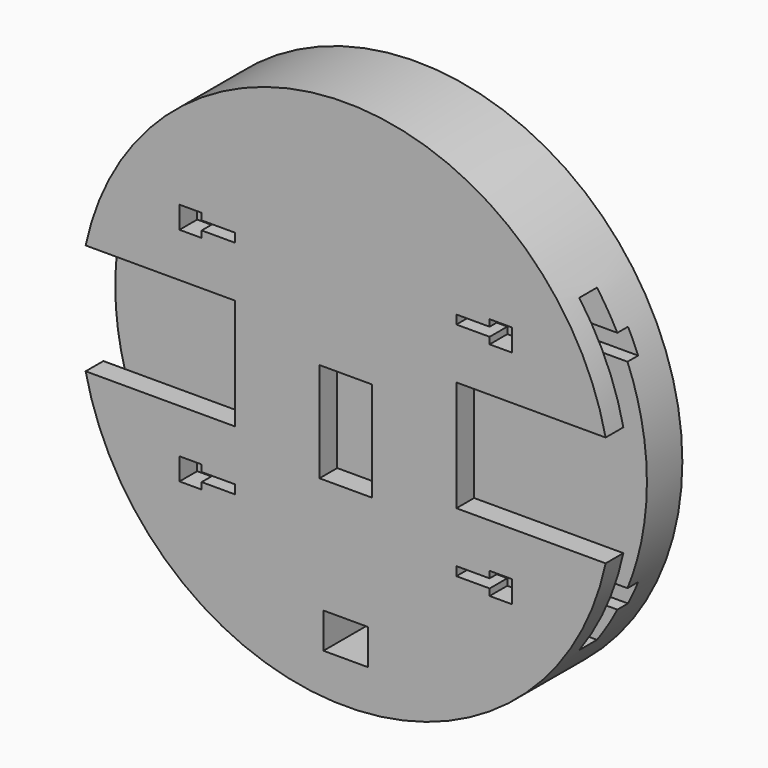
from build123d import *

# Parameters (mm, degrees)
F0_R      = 60
F1_DEPTH  = 20
F3_DEPTH  = 10
F4_W      = 5
F4_H      = 70
F5_DEPTH  = 60
F7_DEPTH  = 3
F8_W      = 11.8
F8_H      = 22.5
F9_DEPTH  = 6
F10_W     = 5
F10_H     = 1.5
F10_W_2   = 2.5
F10_H_2   = 1
F10_W_3   = 7.5
F11_DEPTH = 16
F12_W     = 10
F12_H     = 8
F13_DEPTH = 20.001


with BuildPart() as f1:
    # F0 (on Front) → F1 (new body)
    with BuildSketch(Plane.XZ):
        Circle(F0_R)
    extrude(amount=F1_DEPTH)

    # F2 (on face) → F3 (cut)
    with BuildSketch(Plane.XZ.offset(20)):
        with BuildLine():
            Line((-25, -12.5), (-25, 12.5))
            Line((-25, 12.5), (-58.6834729715, 12.5))
            ThreePointArc((-58.6834729715, 12.5), (-59.6699605258, 6.2845692656), (-60, 0))
            ThreePointArc((-60, 0), (-59.6699605258, -6.2845692656), (-58.6834729715, -12.5))
            Line((-58.6834729715, -12.5), (-25, -12.5))
        make_face()
        with BuildLine():
            Line((58.6834729715, 12.5), (25, 12.5))
            Line((25, 12.5), (25, -12.5))
            Line((25, -12.5), (58.6834729715, -12.5))
            ThreePointArc((58.6834729715, -12.5), (59.6699605258, -6.2845692656), (60, 0))
            ThreePointArc((60, 0), (59.6699605258, 6.2845692656), (58.6834729715, 12.5))
        make_face()
    extrude(amount=-F3_DEPTH, mode=Mode.SUBTRACT)

    # F4 (on Right) → F5 (cut, symmetric)
    with BuildSketch(Plane.YZ):
        with Locations((-12.5, 0)):
            Rectangle(F4_W, F4_H)
    extrude(amount=F5_DEPTH, both=True, mode=Mode.SUBTRACT)

    # F6 (on face) → F7 (cut)
    with BuildSketch(Plane.XZ.offset(10)):
        with BuildLine():
            Line((30, -22.5), (30, -25))
            Line((30, -25), (-30, -25))
            Line((-30, -25), (-30, -22.5))
            Line((-30, -22.5), (-55.6214886532, -22.5))
            ThreePointArc((-55.6214886532, -22.5), (-54.531492065, -25.0263136152), (-53.3268225193, -27.5))
            Line((-53.3268225193, -27.5), (0, -27.5))
            Line((0, -27.5), (53.3268225193, -27.5))
            ThreePointArc((53.3268225193, -27.5), (54.531492065, -25.0263136152), (55.6214886532, -22.5))
            Line((55.6214886532, -22.5), (30, -22.5))
        make_face()
        with BuildLine():
            Line((30, 25), (30, 22.5))
            Line((30, 22.5), (55.6214886532, 22.5))
            ThreePointArc((55.6214886532, 22.5), (54.531492065, 25.0263136152), (53.3268225193, 27.5))
            Line((53.3268225193, 27.5), (0, 27.5))
            Line((0, 27.5), (-53.3268225193, 27.5))
            ThreePointArc((-53.3268225193, 27.5), (-54.531492065, 25.0263136152), (-55.6214886532, 22.5))
            Line((-55.6214886532, 22.5), (-30, 22.5))
            Line((-30, 22.5), (-30, 25))
            Line((-30, 25), (30, 25))
        make_face()
        Polygon((0, 22.5), (30, 22.5), (30, 25), (-30, 25), (-30, 22.5), align=None)
        Polygon((-30, -25), (30, -25), (30, -22.5), (0, -22.5), (-30, -22.5), align=None)
    extrude(amount=-F7_DEPTH, mode=Mode.SUBTRACT)

    # F8 (on face) → F9 (cut)
    with BuildSketch(Plane.XZ.offset(20)):
        with Locations((0, -5.35)):
            Rectangle(F8_W, F8_H)
    extrude(amount=-F9_DEPTH, mode=Mode.SUBTRACT)

    # F10 (on face) → F11 (cut)
    with BuildSketch(Plane.XZ.offset(20)):
        with Locations((-35, 26.75)):
            Rectangle(F10_W, F10_H)
        with Locations((-33.75, 24.5)):
            Rectangle(F10_W_2, F10_H_2)
        with Locations((35, 26.75)):
            Rectangle(F10_W, F10_H)
        with Locations((33.75, 24.5)):
            Rectangle(F10_W_2, F10_H_2)
        with Locations((35, -26.75)):
            Rectangle(F10_W, F10_H)
        with Locations((33.75, -24.5)):
            Rectangle(F10_W_2, F10_H_2)
        with Locations((-35, -26.75)):
            Rectangle(F10_W, F10_H)
        with Locations((-33.75, -24.5)):
            Rectangle(F10_W_2, F10_H_2)
        Polygon((32.5, 25), (35, 25), (35, 24), (37.5, 24), (37.5, 26), (32.5, 26), align=None)
        with Locations((36.25, 23.25)):
            Rectangle(F10_W_2, F10_H)
        with Locations((33.75, 23.25)):
            Rectangle(F10_W_2, F10_H)
        with Locations((28.75, 24.5)):
            Rectangle(F10_W_3, F10_H_2)
        with Locations((28.75, 25.5)):
            Rectangle(F10_W_3, F10_H_2)
        Polygon((-35, -25), (-35, -24), (-37.5, -24), (-37.5, -26), (-32.5, -26), (-32.5, -25), align=None)
        with Locations((-33.75, -23.25)):
            Rectangle(F10_W_2, F10_H)
        with Locations((-36.25, -23.25)):
            Rectangle(F10_W_2, F10_H)
        with Locations((-28.75, -24.5)):
            Rectangle(F10_W_3, F10_H_2)
        with Locations((-28.75, -25.5)):
            Rectangle(F10_W_3, F10_H_2)
        Polygon((37.5, -24), (35, -24), (35, -25), (32.5, -25), (32.5, -26), (37.5, -26), align=None)
        with Locations((36.25, -23.25)):
            Rectangle(F10_W_2, F10_H)
        with Locations((33.75, -23.25)):
            Rectangle(F10_W_2, F10_H)
        Polygon((-35, 25), (-32.5, 25), (-32.5, 26), (-37.5, 26), (-37.5, 24), (-35, 24), align=None)
        with Locations((-36.25, 23.25)):
            Rectangle(F10_W_2, F10_H)
        with Locations((-33.75, 23.25)):
            Rectangle(F10_W_2, F10_H)
        with Locations((-28.75, 25.5)):
            Rectangle(F10_W_3, F10_H_2)
        with Locations((-28.75, 24.5)):
            Rectangle(F10_W_3, F10_H_2)
        with Locations((28.75, -25.5)):
            Rectangle(F10_W_3, F10_H_2)
        with Locations((28.75, -24.5)):
            Rectangle(F10_W_3, F10_H_2)
    extrude(amount=-F11_DEPTH, mode=Mode.SUBTRACT)

    # F12 (on face) → F13 (cut, through all)
    with BuildSketch(Plane.XZ.offset(20)):
        with Locations((0, -46.5785360177)):
            Rectangle(F12_W, F12_H)
    extrude(amount=-F13_DEPTH, mode=Mode.SUBTRACT)


solid = f1.part
